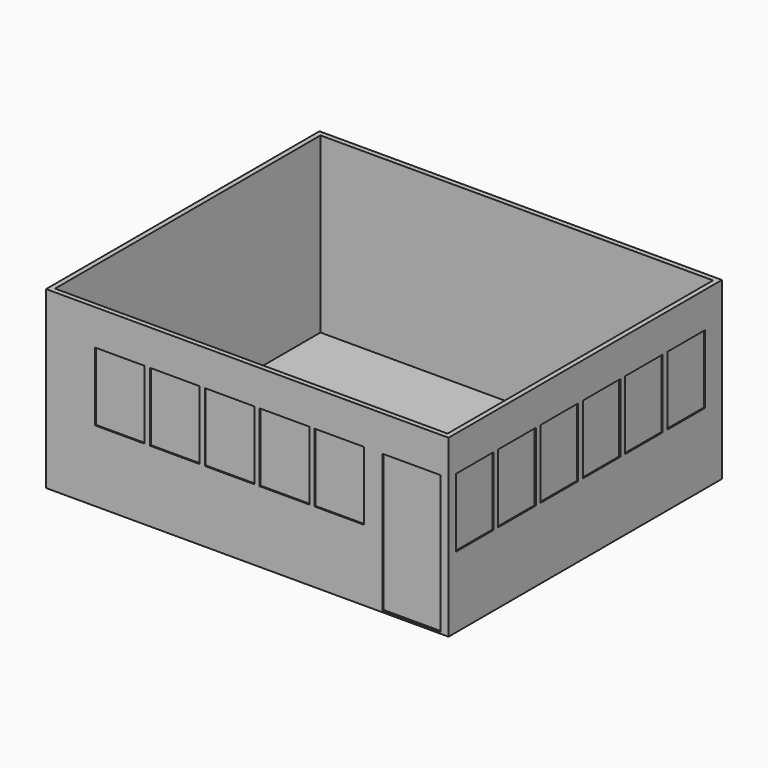
from build123d import *

# Parameters (mm, degrees)
F0_W      = 6184.9
F0_H      = 5251.45
F1_DEPTH  = 25.4
F2_W      = 6184.9
F2_H      = 5251.45
F2_W_2    = 6032.5
F2_H_2    = 5099.05
F3_DEPTH  = 2667
F4_W      = 889
F4_H      = 2120.9
F5_DEPTH  = 76.2
F6_W      = 723.9
F6_H      = 1054.1
F7_DEPTH  = 76.2
F8_W      = 762
F8_H      = 1054.1
F9_DEPTH  = 76.2
F10_START = -19.05
F10_DEPTH = 38.1
F11_START = -19.05
F11_DEPTH = 38.1
F12_START = -19.05
F12_DEPTH = 38.1


with BuildPart() as f1:
    # F0 (on Top) → F1 (new body)
    with BuildSketch(Plane.XY):
        Rectangle(F0_W, F0_H)
    extrude(amount=F1_DEPTH)

    # F2 (on face) → F3 (join)
    with BuildSketch(Plane.XY.offset(25.4)):
        Rectangle(F2_W, F2_H)
        Rectangle(F2_W_2, F2_H_2, mode=Mode.SUBTRACT)
    extrude(amount=F3_DEPTH)

    # F4 (on face) → F5 (cut)
    with BuildSketch(Plane.XZ.offset(2625.725)):
        with Locations((2520.95, 1085.85)):
            Rectangle(F4_W, F4_H)
    extrude(amount=-F5_DEPTH, mode=Mode.SUBTRACT)

    # F6 (on face) → F7 (cut)
    with BuildSketch(Plane.YZ.offset(3092.45)):
        with Locations((-2124.075, 1619.25)):
            Rectangle(F6_W, F6_H)
        with Locations((-1311.275, 1619.25)):
            Rectangle(F6_W, F6_H)
        with Locations((-498.475, 1619.25)):
            Rectangle(F6_W, F6_H)
        with Locations((314.325, 1619.25)):
            Rectangle(F6_W, F6_H)
        with Locations((1127.125, 1619.25)):
            Rectangle(F6_W, F6_H)
        with Locations((1939.925, 1619.25)):
            Rectangle(F6_W, F6_H)
    extrude(amount=-F7_DEPTH, mode=Mode.SUBTRACT)

    # F8 (on face) → F9 (cut)
    with BuildSketch(Plane.XZ.offset(2625.725)):
        with Locations((-1962.15, 1619.25)):
            Rectangle(F8_W, F8_H)
        with Locations((-1117.6, 1619.25)):
            Rectangle(F8_W, F8_H)
        with Locations((-273.05, 1619.25)):
            Rectangle(F8_W, F8_H)
        with Locations((571.5, 1619.25)):
            Rectangle(F8_W, F8_H)
        with Locations((1416.05, 1619.25)):
            Rectangle(F8_W, F8_H)
    extrude(amount=-F9_DEPTH, mode=Mode.SUBTRACT)


with BuildPart() as f10:
    # F4 (on face) → F10 (new body)
    with BuildSketch(Plane.XZ.offset(2625.725).offset(F10_START)):
        with Locations((2520.95, 1085.85)):
            Rectangle(F4_W, F4_H)
    extrude(amount=-F10_DEPTH)


with BuildPart() as f11:
    # F6 (on face) → F11 (new body)
    with BuildSketch(Plane.YZ.offset(3092.45).offset(F11_START)):
        with Locations((-2124.075, 1619.25)):
            Rectangle(F6_W, F6_H)
    extrude(amount=-F11_DEPTH)


with BuildPart() as f11b:
    # F6 (on face) → F11, piece 2 (new body)
    with BuildSketch(Plane.YZ.offset(3092.45).offset(F11_START)):
        with Locations((-1311.275, 1619.25)):
            Rectangle(F6_W, F6_H)
    extrude(amount=-F11_DEPTH)


with BuildPart() as f11c:
    # F6 (on face) → F11, piece 3 (new body)
    with BuildSketch(Plane.YZ.offset(3092.45).offset(F11_START)):
        with Locations((-498.475, 1619.25)):
            Rectangle(F6_W, F6_H)
    extrude(amount=-F11_DEPTH)


with BuildPart() as f11d:
    # F6 (on face) → F11, piece 4 (new body)
    with BuildSketch(Plane.YZ.offset(3092.45).offset(F11_START)):
        with Locations((314.325, 1619.25)):
            Rectangle(F6_W, F6_H)
    extrude(amount=-F11_DEPTH)


with BuildPart() as f11e:
    # F6 (on face) → F11, piece 5 (new body)
    with BuildSketch(Plane.YZ.offset(3092.45).offset(F11_START)):
        with Locations((1127.125, 1619.25)):
            Rectangle(F6_W, F6_H)
    extrude(amount=-F11_DEPTH)


with BuildPart() as f11f:
    # F6 (on face) → F11, piece 6 (new body)
    with BuildSketch(Plane.YZ.offset(3092.45).offset(F11_START)):
        with Locations((1939.925, 1619.25)):
            Rectangle(F6_W, F6_H)
    extrude(amount=-F11_DEPTH)


with BuildPart() as f12:
    # F8 (on face) → F12 (new body)
    with BuildSketch(Plane.XZ.offset(2625.725).offset(F12_START)):
        with Locations((-1962.15, 1619.25)):
            Rectangle(F8_W, F8_H)
    extrude(amount=-F12_DEPTH)


with BuildPart() as f12b:
    # F8 (on face) → F12, piece 2 (new body)
    with BuildSketch(Plane.XZ.offset(2625.725).offset(F12_START)):
        with Locations((-1117.6, 1619.25)):
            Rectangle(F8_W, F8_H)
    extrude(amount=-F12_DEPTH)


with BuildPart() as f12c:
    # F8 (on face) → F12, piece 3 (new body)
    with BuildSketch(Plane.XZ.offset(2625.725).offset(F12_START)):
        with Locations((-273.05, 1619.25)):
            Rectangle(F8_W, F8_H)
    extrude(amount=-F12_DEPTH)


with BuildPart() as f12d:
    # F8 (on face) → F12, piece 4 (new body)
    with BuildSketch(Plane.XZ.offset(2625.725).offset(F12_START)):
        with Locations((571.5, 1619.25)):
            Rectangle(F8_W, F8_H)
    extrude(amount=-F12_DEPTH)


with BuildPart() as f12e:
    # F8 (on face) → F12, piece 5 (new body)
    with BuildSketch(Plane.XZ.offset(2625.725).offset(F12_START)):
        with Locations((1416.05, 1619.25)):
            Rectangle(F8_W, F8_H)
    extrude(amount=-F12_DEPTH)


solid = Compound([f1.part, f10.part, f11.part, f11b.part, f11c.part, f11d.part, f11e.part, f11f.part, f12.part, f12b.part, f12c.part, f12d.part, f12e.part])
